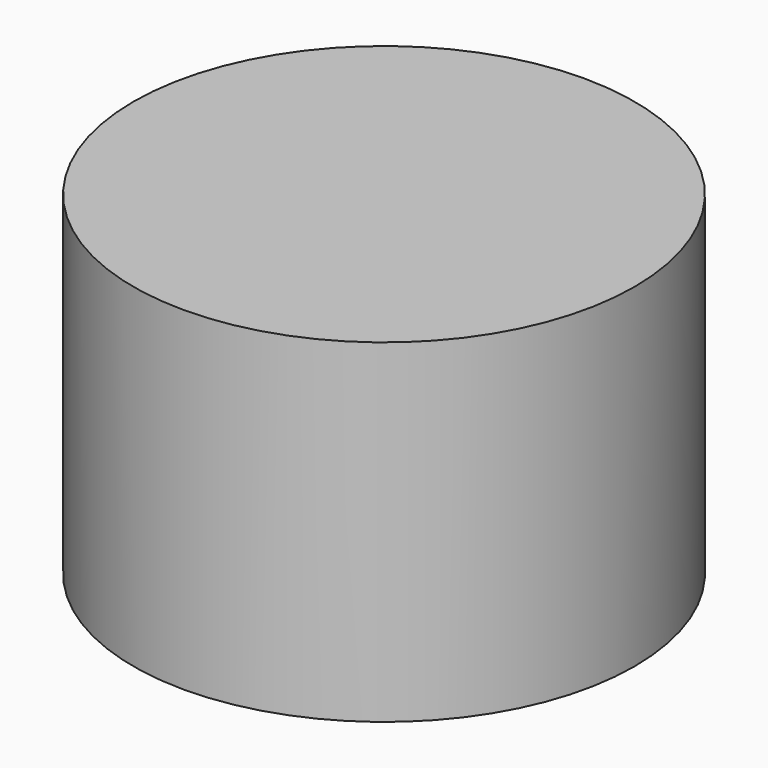
from build123d import *

# Parameters (mm, degrees)
F0_R     = 4
F2_DEPTH = 12.5


with BuildPart() as f1:
    # F0 (on Right) → F1 (revolve)
    with BuildSketch(Plane.YZ):
        Polygon((15, 20), (0, 20), (0, 16.5294222534), (12, 16.5294222534), (12, 0), (15, 0), align=None)
    revolve(axis=Axis((0, 0, 10), (0, 0, 1)))

    # F0 (on Right) → F2 (join, symmetric)
    with BuildSketch(Plane.YZ):
        with Locations((0, 5)):
            Circle(F0_R)
    extrude(amount=F2_DEPTH, both=True)


solid = f1.part
